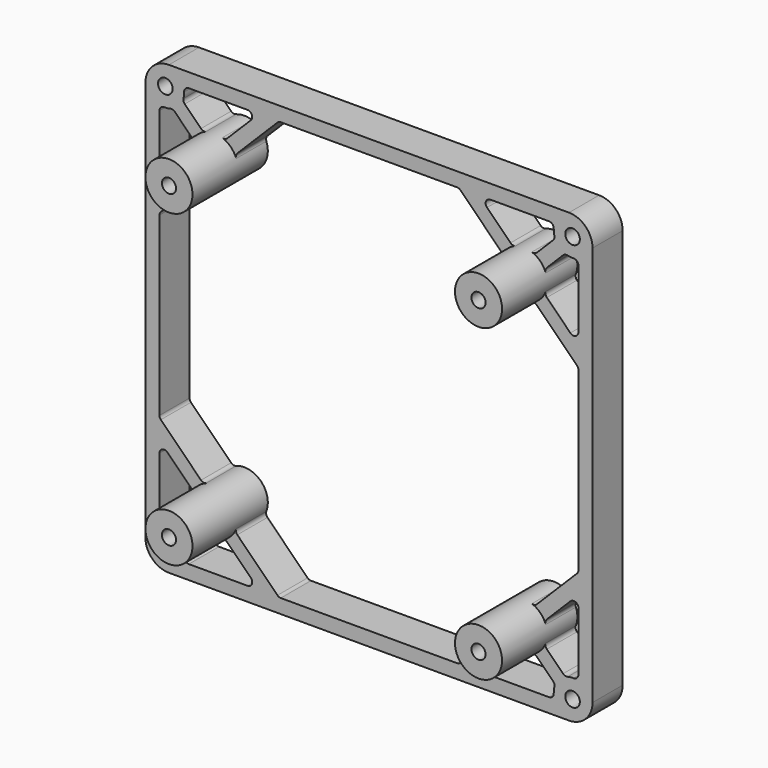
from build123d import *

# Parameters (mm, degrees)
F0_W     = 95
F0_H     = 95
F1_DEPTH = 8
F2_R     = 1.55
F3_DEPTH = 8.001
F5_DEPTH = 8.001
F6_R     = 5
F7_DEPTH = 20
F8_R     = 1.5
F9_DEPTH = 20.001
F11_R    = 5
F12_R    = 1


with BuildPart() as f1:
    # F0 (on Front) → F1 (new body)
    with BuildSketch(Plane.XZ):
        Rectangle(F0_W, F0_H)
    extrude(amount=F1_DEPTH)

    # F2 (on face) → F3 (cut, through all)
    with BuildSketch(Plane.XZ.offset(8)):
        with Locations((-43.2573593129, 43.2573593129)):
            Circle(F2_R)
        with Locations((-43.2573593129, -43.2573593129)):
            Circle(F2_R)
        with Locations((43.2573593129, -43.2573593129)):
            Circle(F2_R)
        with Locations((43.2573593129, 43.2573593129)):
            Circle(F2_R)
    extrude(amount=-F3_DEPTH, mode=Mode.SUBTRACT)

    # F4 (on face) → F5 (cut, through all)
    with BuildSketch(Plane.XZ.offset(8)):
        Polygon((-44.5, 19.1396103068), (-44.5, 0), (-44.5, -19.1396103068), (-31.8198051534, -31.8198051534), (-19.1396103068, -44.5), (0, -44.5), (19.1396103068, -44.5), (31.8198051534, -31.8198051534), (44.5, -19.1396103068), (44.5, 0), (44.5, 19.1396103068), (31.8198051534, 31.8198051534), (19.1396103068, 44.5), (0, 44.5), (-19.1396103068, 44.5), (-31.8198051534, 31.8198051534), align=None)
        with BuildLine():
            ThreePointArc((-39.4552751314, 44.5), (-39.2609809541, 43.0871828943), (-39.5746770207, 41.6959973642))
            Line((-39.5746770207, 41.6959973642), (-32.8804653252, 35.0017856687))
            Line((-32.8804653252, 35.0017856687), (-23.3822509939, 44.5))
            Line((-23.3822509939, 44.5), (-39.4552751314, 44.5))
        make_face()
        with BuildLine():
            Line((-44.5, 23.3822509939), (-35.0017856687, 32.8804653252))
            Line((-35.0017856687, 32.8804653252), (-41.6959973642, 39.5746770207))
            ThreePointArc((-41.6959973642, 39.5746770207), (-43.0871828943, 39.2609809541), (-44.5, 39.4552751314))
            Line((-44.5, 39.4552751314), (-44.5, 23.3822509939))
        make_face()
        with BuildLine():
            Line((-32.8804653252, -35.0017856687), (-39.5746770207, -41.6959973642))
            ThreePointArc((-39.5746770207, -41.6959973642), (-39.2609809541, -43.0871828943), (-39.4552751314, -44.5))
            Line((-39.4552751314, -44.5), (-23.3822509939, -44.5))
            Line((-23.3822509939, -44.5), (-32.8804653252, -35.0017856687))
        make_face()
        with BuildLine():
            ThreePointArc((-44.5, -39.4552751314), (-43.0871828943, -39.2609809541), (-41.6959973642, -39.5746770207))
            Line((-41.6959973642, -39.5746770207), (-35.0017856687, -32.8804653252))
            Line((-35.0017856687, -32.8804653252), (-44.5, -23.3822509939))
            Line((-44.5, -23.3822509939), (-44.5, -39.4552751314))
        make_face()
        with BuildLine():
            Line((35.0017856687, -32.8804653252), (41.6959973642, -39.5746770207))
            ThreePointArc((41.6959973642, -39.5746770207), (43.0871828943, -39.2609809541), (44.5, -39.4552751314))
            Line((44.5, -39.4552751314), (44.5, -23.3822509939))
            Line((44.5, -23.3822509939), (35.0017856687, -32.8804653252))
        make_face()
        with BuildLine():
            ThreePointArc((39.4552751314, -44.5), (39.2609809541, -43.0871828943), (39.5746770207, -41.6959973642))
            Line((39.5746770207, -41.6959973642), (32.8804653252, -35.0017856687))
            Line((32.8804653252, -35.0017856687), (23.3822509939, -44.5))
            Line((23.3822509939, -44.5), (39.4552751314, -44.5))
        make_face()
        with BuildLine():
            Line((32.8804653252, 35.0017856687), (39.5746770207, 41.6959973642))
            ThreePointArc((39.5746770207, 41.6959973642), (39.2609809541, 43.0871828943), (39.4552751314, 44.5))
            Line((39.4552751314, 44.5), (23.3822509939, 44.5))
            Line((23.3822509939, 44.5), (32.8804653252, 35.0017856687))
        make_face()
        with BuildLine():
            ThreePointArc((44.5, 39.4552751314), (43.0871828943, 39.2609809541), (41.6959973642, 39.5746770207))
            Line((41.6959973642, 39.5746770207), (35.0017856687, 32.8804653252))
            Line((35.0017856687, 32.8804653252), (44.5, 23.3822509939))
            Line((44.5, 23.3822509939), (44.5, 39.4552751314))
        make_face()
    extrude(amount=-F5_DEPTH, mode=Mode.SUBTRACT)

    # F6 (on face) → F7 (join)
    with BuildSketch(Plane(origin=(0, 0, 0), x_dir=(-1, 0, 0), z_dir=(0, 1, 0))):
        with Locations((-32.8804653252, 32.8804653252)):
            Circle(F6_R)
        with Locations((-32.8804653252, -32.8804653252)):
            Circle(F6_R)
        with Locations((32.8804653252, -32.8804653252)):
            Circle(F6_R)
        with Locations((32.8804653252, 32.8804653252)):
            Circle(F6_R)
    extrude(amount=-F7_DEPTH)

    # F8 (on face) → F9 (cut, through all)
    with BuildSketch(Plane.XZ.offset(20)):
        with Locations((-32.8804653252, -32.8804653252)):
            Circle(F8_R)
        with Locations((32.8804653252, -32.8804653252)):
            Circle(F8_R)
        with Locations((32.8804653252, 32.8804653252)):
            Circle(F8_R)
        with Locations((-32.8804653252, 32.8804653252)):
            Circle(F8_R)
    extrude(amount=-F9_DEPTH, mode=Mode.SUBTRACT)

    # F11
    f11_edges = [f1.edges().sort_by_distance(p)[0] for p in [
        (-47.5, -4, 47.5),
        (47.5, -4, 47.5),
        (47.5, -4, -47.5),
        (-47.5, -4, -47.5),
    ]]
    fillet(f11_edges, radius=F11_R)

    # F12
    f12_edges = [f1.edges().sort_by_distance(p)[0] for p in [
        (-39.455275, -4, 44.5),
        (-39.574677, -4, 41.695997),
        (-23.382251, -4, 44.5),
        (-30.568441, -4, 37.31381),
        (-35.19249, -4, 37.31381),
        (-37.31381, -4, 35.19249),
        (-37.31381, -4, 30.568441),
        (-44.5, -4, 23.382251),
        (-41.695997, -4, 39.574677),
        (-44.5, -4, 39.455275),
        (-44.5, -4, 19.13961),
        (-19.13961, -4, 44.5),
        (-28.447121, -4, 35.19249),
        (-35.19249, -4, 28.447121),
        (30.568441, -4, 37.31381),
        (35.19249, -4, 37.31381),
        (44.5, -4, 23.382251),
        (19.13961, -4, 44.5),
        (35.19249, -4, 28.447121),
        (28.447121, -4, 35.19249),
        (44.5, -4, 19.13961),
        (39.455275, -4, 44.5),
        (41.695997, -4, 39.574677),
        (44.5, -4, 39.455275),
        (37.31381, -4, 30.568441),
        (23.382251, -4, 44.5),
        (39.574677, -4, 41.695997),
        (37.31381, -4, 35.19249),
        (44.5, -4, -19.13961),
        (28.447121, -4, -35.19249),
        (35.19249, -4, -28.447121),
        (19.13961, -4, -44.5),
        (37.31381, -4, -30.568441),
        (37.31381, -4, -35.19249),
        (44.5, -4, -23.382251),
        (35.19249, -4, -37.31381),
        (30.568441, -4, -37.31381),
        (44.5, -4, -39.455275),
        (41.695997, -4, -39.574677),
        (39.574677, -4, -41.695997),
        (39.455275, -4, -44.5),
        (23.382251, -4, -44.5),
        (-19.13961, -4, -44.5),
        (-28.447121, -4, -35.19249),
        (-35.19249, -4, -28.447121),
        (-44.5, -4, -19.13961),
        (-23.382251, -4, -44.5),
        (-30.568441, -4, -37.31381),
        (-39.455275, -4, -44.5),
        (-39.574677, -4, -41.695997),
        (-35.19249, -4, -37.31381),
        (-37.31381, -4, -35.19249),
        (-37.31381, -4, -30.568441),
        (-44.5, -4, -23.382251),
        (-41.695997, -4, -39.574677),
        (-44.5, -4, -39.455275),
    ]]
    fillet(f12_edges, radius=F12_R)


solid = f1.part
